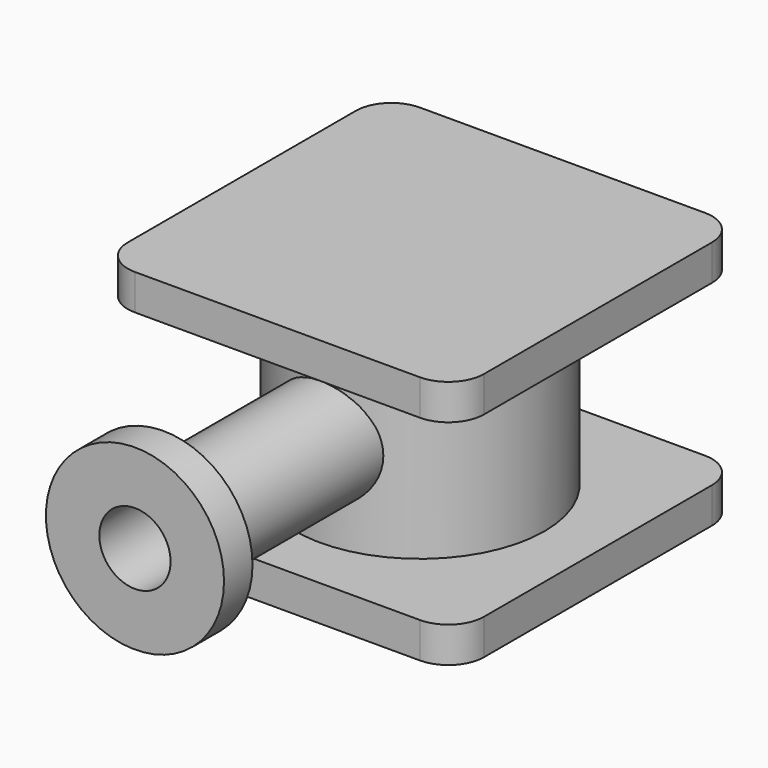
from build123d import *

# Parameters (mm, degrees)
F0_R     = 88.9
F1_DEPTH = 63.5
F3_DEPTH = 25.4
F5_R     = 38.1
F6_DEPTH = 228.6
F7_R     = 63.5
F8_DEPTH = 25.4
F10_D    = 50.8


with BuildPart() as f1:
    # F0 (on Top) → F1 (new body, symmetric)
    with BuildSketch(Plane.XY):
        Circle(F0_R)
    extrude(amount=F1_DEPTH, both=True)

    # F2 (on face) → F3 (join)
    with BuildSketch(Plane.XY.offset(63.5)):
        with BuildLine():
            Line((101.6, 127), (0, 127))
            Line((0, 127), (-101.6, 127))
            ThreePointArc((-101.6, 127), (-119.5605122421, 119.5605122421), (-127, 101.6))
            Line((-127, 101.6), (-127, 0))
            Line((-127, 0), (-127, -101.6))
            ThreePointArc((-127, -101.6), (-119.5605122421, -119.5605122421), (-101.6, -127))
            Line((-101.6, -127), (0, -127))
            Line((0, -127), (101.6, -127))
            ThreePointArc((101.6, -127), (119.5605122421, -119.5605122421), (127, -101.6))
            Line((127, -101.6), (127, 0))
            Line((127, 0), (127, 101.6))
            ThreePointArc((127, 101.6), (119.5605122421, 119.5605122421), (101.6, 127))
        make_face()
    extrude(amount=F3_DEPTH)

    # F4: F1 across plane


with BuildPart() as f1_1:
    add(f1.part)
    add(f1.part.mirror(Plane.XY))


with BuildPart() as f6:
    # F5 (on Front) → F6 (new body)
    with BuildSketch(Plane.XZ):
        Circle(F5_R)
    extrude(amount=F6_DEPTH)

    # F7 (on face) → F8 (join)
    with BuildSketch(Plane.XZ.offset(228.6)):
        Circle(F7_R)
    extrude(amount=F8_DEPTH)

    # F10 (through all)
    with Locations(Plane.XZ.offset(254)):
        with Locations((0, 0)):
            Hole(F10_D / 2)


solid = Compound([f1_1.part, f6.part])
